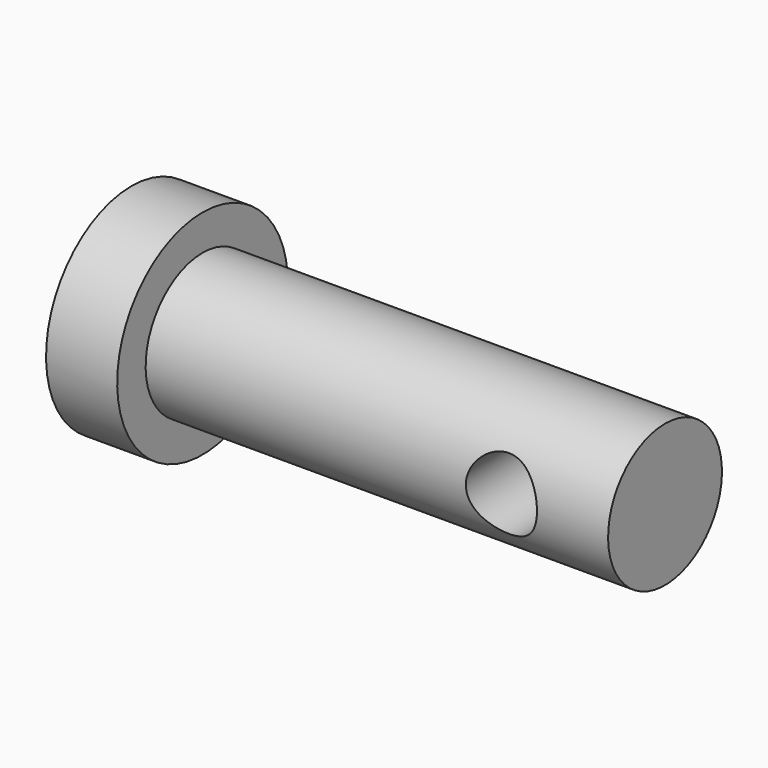
from build123d import *

# Parameters (mm, degrees)
F2_R          = 0.79375
F3_DEPTH      = 2.38225
F3_DEPTH_BACK = 25.4


with BuildPart() as f1:
    # F0 (on Front) → F1 (revolve)
    with BuildSketch(Plane.XZ):
        Polygon((2.38125, 1.5875), (-7.9375, 1.5875), (-7.9375, 2.38125), (-9.525, 2.38125), (-9.525, 0), (2.38125, 0), align=None)
    revolve(axis=Axis((-3.571875, 0, 0), (-1, 0, 0)))

    # F2 (on Front) → F3 (cut, two sides)
    with BuildSketch(Plane.XZ) as f3_sk:
        Circle(F2_R)
    extrude(amount=F3_DEPTH, mode=Mode.SUBTRACT)
    extrude(f3_sk.sketch, amount=-F3_DEPTH_BACK, mode=Mode.SUBTRACT)


solid = f1.part
